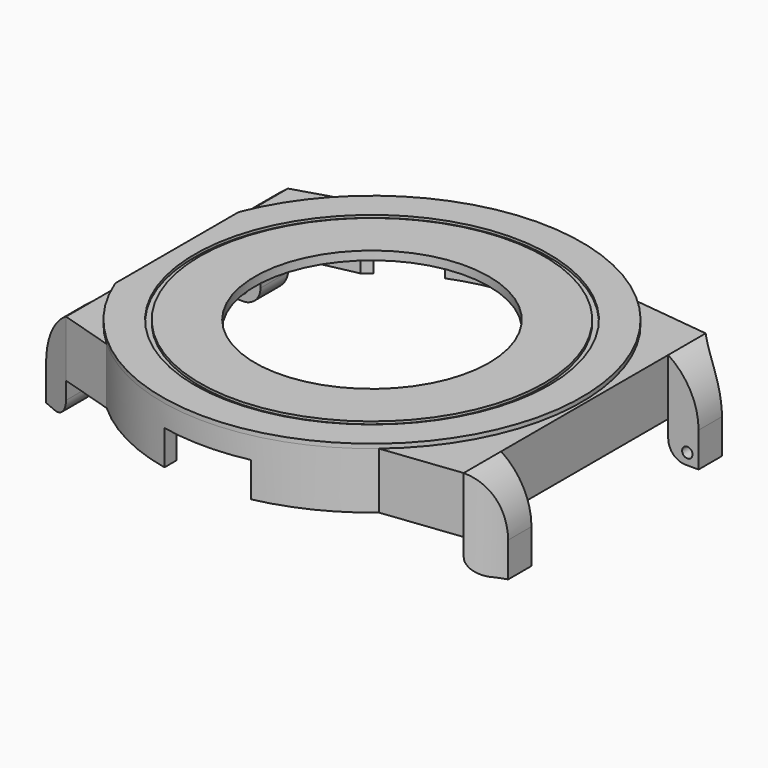
from build123d import *

# Parameters (mm, degrees)
PAD_DEPTH            = 6.5
POCKET_DEPTH         = 6
SKETCH002_R          = 13.5
POCKET001_DEPTH      = 1
SKETCH003_W          = 5.4
SKETCH003_H          = 6.5
PAD001_DEPTH         = 3.5
POCKET002_DEPTH      = 10
SKETCH010_W          = 3.95
SKETCH010_H          = 6.5
PAD002_DEPTH         = 3.5
POCKET005_DEPTH      = 10
SKETCH015_R          = 2.2
SKETCH015_R_2        = 1.025
PAD003_DEPTH         = 2
POCKET009_DEPTH      = 4
POCKET010_DEPTH      = 4
PAD004_DEPTH         = 4
POCKET013_DEPTH      = 12.151
POCKET013_DEPTH_BACK = 36.251
SKETCH022_R          = 0.6
POCKET014_DEPTH      = 2
SKETCH023_R          = 0.6
POCKET015_DEPTH      = 2
SKETCH024_R          = 13.5
PAD005_DEPTH         = 0.5
SKETCH025_R          = 20.45
SKETCH025_R_2        = 19.85
POCKET016_DEPTH      = 0.3


with BuildPart() as part:
    # Sketch → Pad (new body)
    with BuildSketch(Plane.XY):
        with BuildLine():
            Line((-22.5019915649, 16), (-22.5019915649, -16))
            Line((-22.5019915649, -16), (-16.2858834578, -17.9))
            ThreePointArc((-16.2858834578, -17.9), (-0.4552796053, -24.1957169863), (15.6009615088, -18.5))
            Line((15.6009615088, -18.5), (24.5395016581, -17.45))
            Line((24.5395016581, 17.45), (24.5395016581, -17.45))
            Line((15.6009615088, 18.5), (24.5395016581, 17.45))
            ThreePointArc((15.6009615088, 18.5), (-0.4552796053, 24.1957169863), (-16.2858834578, 17.9))
            Line((-22.5019915649, 16), (-16.2858834578, 17.9))
        make_face()
    extrude(amount=PAD_DEPTH)

    # Sketch001 → Pocket (cut)
    with BuildSketch(Plane.XY):
        with BuildLine():
            Line((-14.8539557021, 16.9), (-21.2122180433, 15.55))
            Line((-21.2122180433, 15.55), (-21.2122180433, -15.55))
            Line((-21.2122180433, -15.55), (-14.8539557021, -16.9))
            ThreePointArc((-14.8539557021, -16.9), (-0.0760301383, -22.4998715423), (14.739402973, -17))
            Line((14.739402973, -17), (23.6191552218, -16.4))
            Line((23.6191552218, 16.4), (23.6191552218, -16.4))
            Line((14.739402973, 17), (23.6191552218, 16.4))
            ThreePointArc((14.739402973, 17), (-0.0760301383, 22.4998715423), (-14.8539557021, 16.9))
        make_face()
    extrude(amount=POCKET_DEPTH, mode=Mode.SUBTRACT)

    # Sketch002 (on Face19 of Pocket) → Pocket001 (cut)
    with BuildSketch(Plane(origin=(0, 0, 6), x_dir=(1, 0, 0), z_dir=(0, 0, -1))):
        Circle(SKETCH002_R)
    extrude(amount=-POCKET001_DEPTH, mode=Mode.SUBTRACT)

    # Sketch003 (on Face7 of Pad) → Pad001 (join)
    with BuildSketch(Plane.YZ.offset(24.5395016581)):
        with Locations((-14.75, 3.25)):
            Rectangle(SKETCH003_W, SKETCH003_H)
        with Locations((14.75, 3.25)):
            Rectangle(SKETCH003_W, SKETCH003_H)
    extrude(amount=PAD001_DEPTH)

    # Sketch006 (on Face22 of Pad001) → Pocket002 (cut)
    with BuildSketch(Plane.XY.offset(6.5)):
        with BuildLine():
            ThreePointArc((24.5395016581, 17.45), (26.1592830786, 16.2095505764), (28.0395016581, 15.4176006311))
            Line((28.0395016581, 17.45), (28.0395016581, 15.4176006311))
            Line((28.0395016581, 17.45), (24.5395016581, 17.45))
        make_face()
        with BuildLine():
            ThreePointArc((28.0395016581, -15.4176006311), (26.1592830786, -16.2095505765), (24.5395016581, -17.4500000001))
            Line((28.0395016581, -17.45), (24.5395016581, -17.45))
            Line((28.0395016581, -15.4176006311), (28.0395016581, -17.45))
        make_face()
    extrude(amount=-POCKET002_DEPTH, mode=Mode.SUBTRACT)

    # Sketch010 (on Face3 of Pad) → Pad002 (join)
    with BuildSketch(Plane(origin=(-22.5019915649, 0, 0), x_dir=(0, -1, 0), z_dir=(-1, 0, 0))):
        with Locations((-14.025, 3.25)):
            Rectangle(SKETCH010_W, SKETCH010_H)
        with Locations((14.025, 3.25)):
            Rectangle(SKETCH010_W, SKETCH010_H)
    extrude(amount=PAD002_DEPTH)

    # Sketch011 (on Face28 of Pad002) → Pocket005 (cut)
    with BuildSketch(Plane.XY.offset(6.5)):
        Polygon((-26.0019915649, 16), (-22.5019915649, 16), (-26.0019915649, 14.5), align=None)
        Polygon((-22.5019915649, -16), (-26.0019915649, -14.5), (-26.0019915649, -16), align=None)
    extrude(amount=-POCKET005_DEPTH, mode=Mode.SUBTRACT)

    # Sketch015 (on Face19 of Pocket) → Pad003 (join)
    with BuildSketch(Plane(origin=(0, 0, 6), x_dir=(1, 0, 0), z_dir=(0, 0, -1))):
        with Locations((-18.42, 13.32)):
            Circle(SKETCH015_R)
        with Locations((-18.42, 13.32)):
            Circle(SKETCH015_R_2, mode=Mode.SUBTRACT)
        with Locations((7.27, 18.56)):
            Circle(SKETCH015_R)
        with Locations((7.27, 18.56)):
            Circle(SKETCH015_R_2, mode=Mode.SUBTRACT)
        with Locations((5.37, -19.79)):
            Circle(SKETCH015_R)
        with Locations((5.37, -19.79)):
            Circle(SKETCH015_R_2, mode=Mode.SUBTRACT)
        with Locations((-18.42, -13.32)):
            Circle(SKETCH015_R)
        with Locations((-18.42, -13.32)):
            Circle(SKETCH015_R_2, mode=Mode.SUBTRACT)
    extrude(amount=PAD003_DEPTH)

    # Sketch016 (on Face4 of Pocket) → Pocket009 (cut)
    with BuildSketch(Plane(origin=(0, 0, 0), x_dir=(1, 0, 0), z_dir=(0, 0, -1))):
        with BuildLine():
            Line((-4.9992330338, 23.6779996848), (-5.0007669662, 21.9372361465))
            ThreePointArc((5.0007669662, 21.9372361465), (0, 22.5), (-5.0007669662, 21.9372361465))
            Line((5.0007669662, 23.6776757675), (5.0007669662, 21.9372361465))
            ThreePointArc((5.0007669662, 23.6776757675), (0.00078388, 24.1999999873), (-4.9992330338, 23.6779996848))
        make_face()
    extrude(amount=-POCKET009_DEPTH, mode=Mode.SUBTRACT)

    # Sketch017 (on Face4 of Pocket) → Pocket010 (cut)
    with BuildSketch(Plane(origin=(0, 0, 0), x_dir=(1, 0, 0), z_dir=(0, 0, -1))):
        with BuildLine():
            ThreePointArc((-3.2541322314, -22.2634369184), (0, -22.5), (3.2541322314, -22.2634369184))
            Line((3.2541322314, -22.2634369184), (3.5, -23.9455632634))
            ThreePointArc((-3.5, -23.9455632634), (0, -24.2), (3.5, -23.9455632634))
            Line((-3.2541322314, -22.2634369184), (-3.5, -23.9455632634))
        make_face()
        with BuildLine():
            ThreePointArc((-13.9498796389, -17.6536358312), (-11.25, -19.4855715851), (-8.3135572795, -20.9077680626))
            Line((-8.3135572795, -20.9077680626), (-8.9416927184, -22.487466094))
            ThreePointArc((-15.0038705449, -18.987466094), (-12.1, -20.9578147716), (-8.9416927184, -22.487466094))
            Line((-13.9498796389, -17.6536358312), (-15.0038705449, -18.987466094))
        make_face()
        with BuildLine():
            ThreePointArc((8.3135572795, -20.9077680626), (11.25, -19.4855715851), (13.9498796389, -17.6536358312))
            Line((13.9498796389, -17.6536358312), (15.0038705449, -18.987466094))
            ThreePointArc((8.9416927184, -22.487466094), (12.1, -20.9578147716), (15.0038705449, -18.987466094))
            Line((8.3135572795, -20.9077680626), (8.9416927184, -22.487466094))
        make_face()
    extrude(amount=-POCKET010_DEPTH, mode=Mode.SUBTRACT)

    # Sketch018 (on Face8 of Pocket005) → Pad004 (join)
    with BuildSketch(Plane(origin=(0, 0, 0), x_dir=(1, 0, 0), z_dir=(0, 0, -1))):
        Polygon((-26.0019915649, 14.5), (-26.0019915649, 12.05), (-22.5019915649, 12.05), (-22.5019915649, 16), align=None)
        Polygon((-26.0019915649, -12.05), (-22.5019915649, -12.05), (-22.5019915649, -16), (-26.0019915649, -14.5), align=None)
        with BuildLine():
            Line((24.5395016581, 17.4500000001), (24.5395016581, 12.05))
            Line((28.0395016581, 12.05), (24.5395016581, 12.05))
            Line((28.0395016581, 15.4176006311), (28.0395016581, 12.05))
            ThreePointArc((24.5395016581, 17.4500000001), (26.1592830786, 16.2095505765), (28.0395016581, 15.4176006311))
        make_face()
        with BuildLine():
            Line((24.5395016581, -12.05), (24.5395016581, -17.45))
            ThreePointArc((28.0395016581, -15.4176006311), (26.1592830786, -16.2095505764), (24.5395016581, -17.45))
            Line((28.0395016581, -12.05), (28.0395016581, -15.4176006311))
            Line((24.5395016581, -12.05), (28.0395016581, -12.05))
        make_face()
    extrude(amount=PAD004_DEPTH)

    # Sketch021 (on Face50 of Pad004) → Pocket013 (cut, two sides)
    with BuildSketch(Plane(origin=(0, -12.05, 0), x_dir=(-1, 0, 0), z_dir=(0, 1, 0))) as pocket013_sk:
        with BuildLine():
            Line((-24.5395016581, -4), (-24.5395016581, -2))
            ThreePointArc((-26.5395016581, -4), (-25.1252880957, -3.4142135624), (-24.5395016581, -2))
            Line((-24.5395016581, -4), (-26.5395016581, -4))
        make_face()
        with BuildLine():
            Line((22.5019915649, -4), (22.5019915649, -2))
            ThreePointArc((22.5019915649, -2), (23.0877780026, -3.4142135624), (24.5019915649, -4))
            Line((22.5019915649, -4), (24.5019915649, -4))
        make_face()
        with BuildLine():
            Line((-28.0395016581, 0), (-28.0395016581, 6.5))
            Line((-28.0395016581, 6.5), (-24.5395016581, 6.5))
            ThreePointArc((-24.5395016581, 6.5), (-27.1088837932, 3.6912057651), (-28.0395016581, 0))
        make_face()
        with BuildLine():
            Line((26.0019915649, 6.5), (26.0019915649, 0))
            ThreePointArc((26.0019915649, 0), (25.0713737, 3.6912057651), (22.5019915649, 6.5))
            Line((26.0019915649, 6.5), (22.5019915649, 6.5))
        make_face()
    extrude(amount=-POCKET013_DEPTH, mode=Mode.SUBTRACT)
    extrude(pocket013_sk.sketch, amount=POCKET013_DEPTH_BACK, mode=Mode.SUBTRACT)

    # Sketch022 (on Face66 of Pocket013) → Pocket014 (cut)
    with BuildSketch(Plane.XZ.offset(-12.05)):
        with Locations((-24.7019915649, -2.7)):
            Circle(SKETCH022_R)
        with Locations((26.7395016581, -2.7)):
            Circle(SKETCH022_R)
    extrude(amount=-POCKET014_DEPTH, mode=Mode.SUBTRACT)

    # Sketch023 (on Face49 of Pocket014) → Pocket015 (cut)
    with BuildSketch(Plane(origin=(0, -12.05, 0), x_dir=(-1, 0, 0), z_dir=(0, 1, 0))):
        with Locations((-26.7395016581, -2.7)):
            Circle(SKETCH023_R)
        with Locations((24.7019915649, -2.7)):
            Circle(SKETCH023_R)
    extrude(amount=-POCKET015_DEPTH, mode=Mode.SUBTRACT)

    # Sketch024 (on Face16 of Pocket015) → Pad005 (join)
    with BuildSketch(Plane.XY.offset(6.5)):
        with BuildLine():
            ThreePointArc((-22.5019915649, -8.9050758341), (24.2, 0), (-22.5019915649, 8.9050758341))
            Line((-22.5019915649, 8.9050758341), (-22.5019915649, -8.9050758341))
        make_face()
        Circle(SKETCH024_R, mode=Mode.SUBTRACT)
    extrude(amount=PAD005_DEPTH)

    # Sketch025 (on Face42 of Pad005) → Pocket016 (cut)
    with BuildSketch(Plane.XY.offset(7)):
        Circle(SKETCH025_R)
        Circle(SKETCH025_R_2, mode=Mode.SUBTRACT)
    extrude(amount=-POCKET016_DEPTH, mode=Mode.SUBTRACT)


solid = part.part
